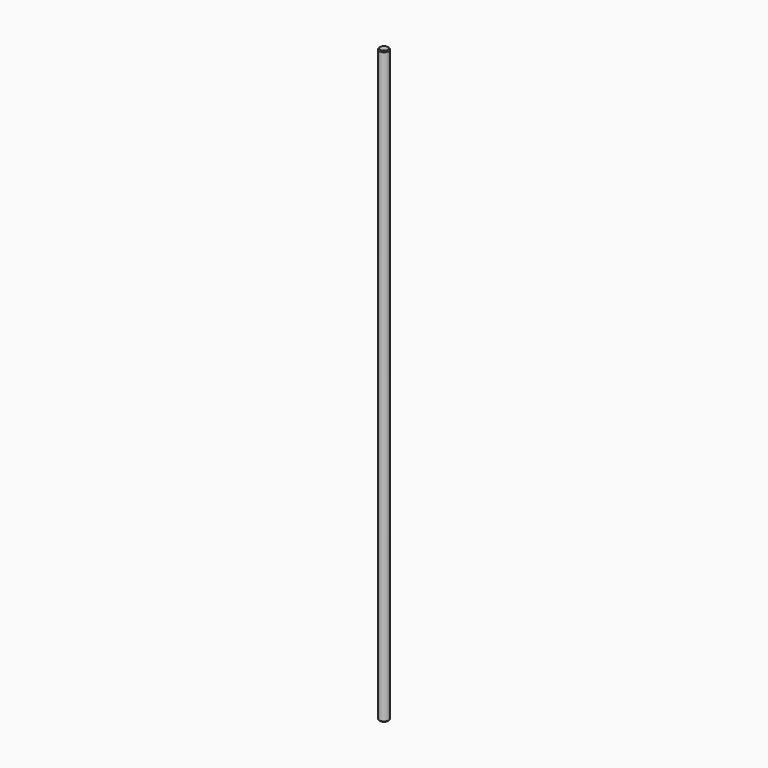
from build123d import *

# Parameters (mm, degrees)
SKETCH_R     = 2.5
PAD_DEPTH    = 306
CHAMFER_SIZE = 0.5


with BuildPart() as part:
    # Sketch → Pad (new body)
    with BuildSketch(Plane.XY):
        Circle(SKETCH_R)
    extrude(amount=PAD_DEPTH)

    # Chamfer
    chamfer_edges = [part.edges().sort_by_distance(p)[0] for p in [
        (-2.5, 0, 306),
        (-2.5, 0, 0),
    ]]
    chamfer(chamfer_edges, length=CHAMFER_SIZE)


solid = part.part
